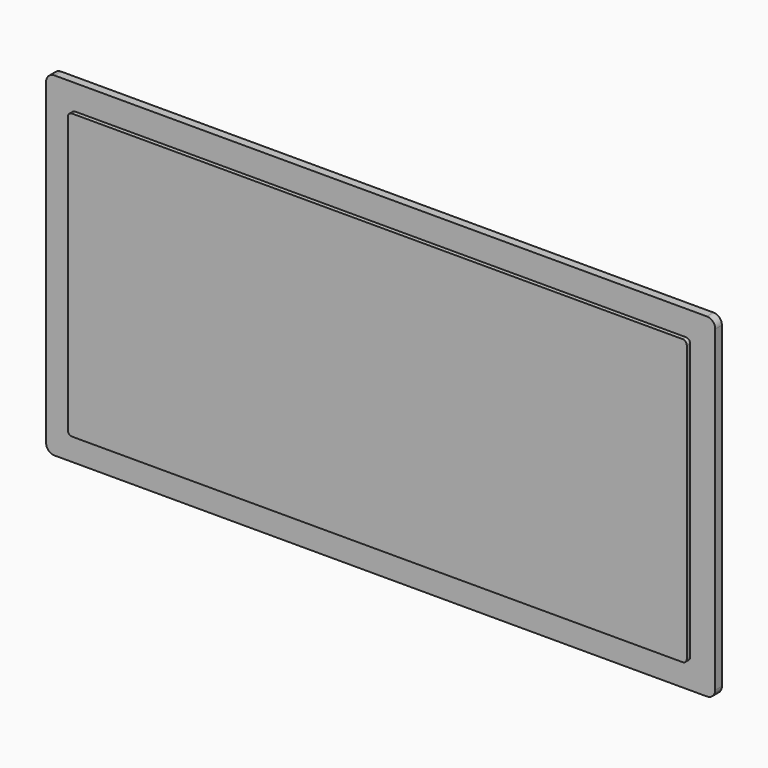
from build123d import *

# Parameters (mm, degrees)
F0_W     = 80
F0_H     = 40
F1_DEPTH = 1
F2_W     = 74
F2_H     = 34
F3_DEPTH = 0.5
F4_R     = 1
F5_R     = 0.5


with BuildPart() as f1:
    # F0 (on Front) → F1 (new body)
    with BuildSketch(Plane.XZ):
        Rectangle(F0_W, F0_H)
    extrude(amount=F1_DEPTH)

    # F2 (on face) → F3 (join)
    with BuildSketch(Plane.XZ.offset(1)):
        Rectangle(F2_W, F2_H)
    extrude(amount=F3_DEPTH)

    # F4
    f4_edges = [f1.edges().sort_by_distance(p)[0] for p in [
        (40, -0.5, 20),
        (40, -0.5, -20),
        (-40, -0.5, -20),
        (-40, -0.5, 20),
    ]]
    fillet(f4_edges, radius=F4_R)

    # F5
    f5_edges = [f1.edges().sort_by_distance(p)[0] for p in [
        (-37, -1.25, 17),
        (-37, -1.25, -17),
        (37, -1.25, -17),
        (37, -1.25, 17),
    ]]
    fillet(f5_edges, radius=F5_R)


solid = f1.part
